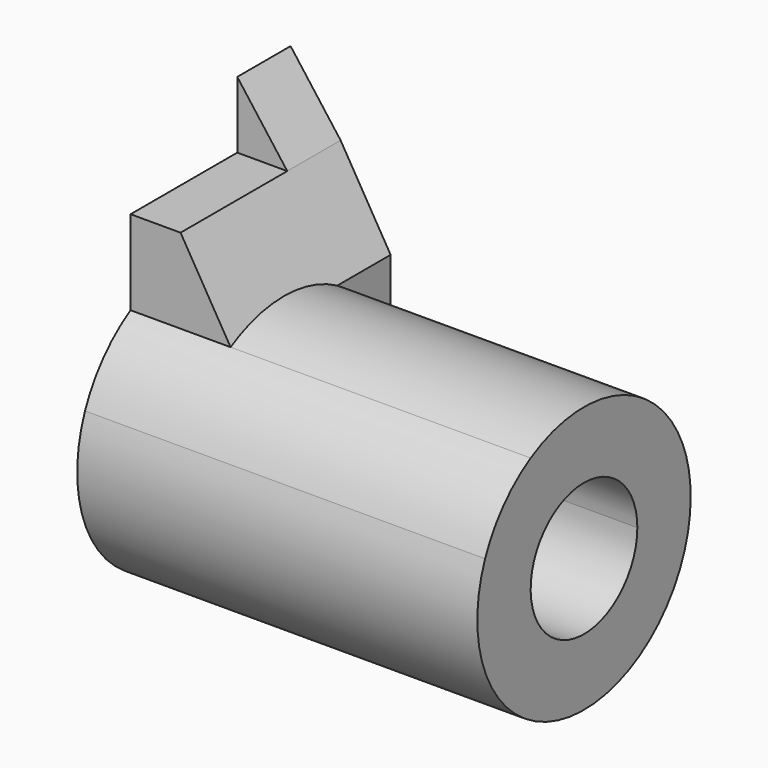
from build123d import *

# Parameters (mm, degrees)
F1_DEPTH = 76.2
F2_DEPTH = 76.2
F3_DEPTH = 57.15
F5_DEPTH = 25.4
F7_DEPTH = 76.2


with BuildPart() as f1:
    # F0 (on Right) → F1 (new body)
    with BuildSketch(Plane.YZ):
        with BuildLine():
            Line((27.286521, -8.945027), (42.432691, -8.945027))
            ThreePointArc((42.432691, -8.945027), (27.150596, 5.547898), (6.186261, 3.527018))
            ThreePointArc((6.186261, 3.527018), (-0.279827, -1.802061), (-4.66017, -8.945027))
            Line((-4.66017, -8.945027), (10.486, -8.945027))
            ThreePointArc((10.486, -8.945027), (18.886261, -5.770027), (27.286521, -8.945027))
        make_face()
        with BuildLine():
            ThreePointArc((-4.66017, -8.945027), (14.034422, -43.402329), (44.286261, -18.470027))
            ThreePointArc((44.286261, -18.470027), (43.818562, -13.618189), (42.432691, -8.945027))
            Line((42.432691, -8.945027), (27.286521, -8.945027))
            ThreePointArc((27.286521, -8.945027), (30.461521, -13.244767), (31.586261, -18.470027))
            ThreePointArc((31.586261, -18.470027), (13.661, -30.045288), (10.486, -8.945027))
            Line((10.486, -8.945027), (-4.66017, -8.945027))
        make_face()
    extrude(amount=-F1_DEPTH)

    # F0 (on Right) → F2 (join)
    with BuildSketch(Plane.YZ):
        with BuildLine():
            ThreePointArc((42.432691, -8.945027), (43.818562, -13.618189), (44.286261, -18.470027))
            Line((44.286261, -18.470027), (44.286261, 32.329973))
            Line((44.286261, 32.329973), (31.586261, 32.329973))
            Line((31.586261, 32.329973), (31.586261, 19.629973))
            Line((31.586261, 19.629973), (6.186261, 19.629973))
            Line((6.186261, 19.629973), (6.186261, 3.527018))
            ThreePointArc((6.186261, 3.527018), (27.150596, 5.547898), (42.432691, -8.945027))
        make_face()
    extrude(amount=-F2_DEPTH)

    # F0 (on Right) → F3 (cut)
    with BuildSketch(Plane.YZ):
        with BuildLine():
            ThreePointArc((42.432691, -8.945027), (43.818562, -13.618189), (44.286261, -18.470027))
            Line((44.286261, -18.470027), (44.286261, 32.329973))
            Line((44.286261, 32.329973), (31.586261, 32.329973))
            Line((31.586261, 32.329973), (31.586261, 19.629973))
            Line((31.586261, 19.629973), (6.186261, 19.629973))
            Line((6.186261, 19.629973), (6.186261, 3.527018))
            ThreePointArc((6.186261, 3.527018), (27.150596, 5.547898), (42.432691, -8.945027))
        make_face()
    extrude(amount=-F3_DEPTH, mode=Mode.SUBTRACT)

    # F4 (on face) → F5 (cut)
    with BuildSketch(Plane.XZ.offset(-31.586261)):
        Polygon((-76.2, 32.329973), (-66.675, 19.629973), (-57.15, 19.629973), (-57.15, 32.329973), align=None)
    extrude(amount=-F5_DEPTH, mode=Mode.SUBTRACT)

    # F6 (on face) → F7 (cut)
    with BuildSketch(Plane.XZ.offset(-6.186261)):
        Polygon((-57.15, 19.629973), (-66.675, 19.629973), (-57.15, 3.527018), align=None)
    extrude(amount=-F7_DEPTH, mode=Mode.SUBTRACT)


solid = f1.part
